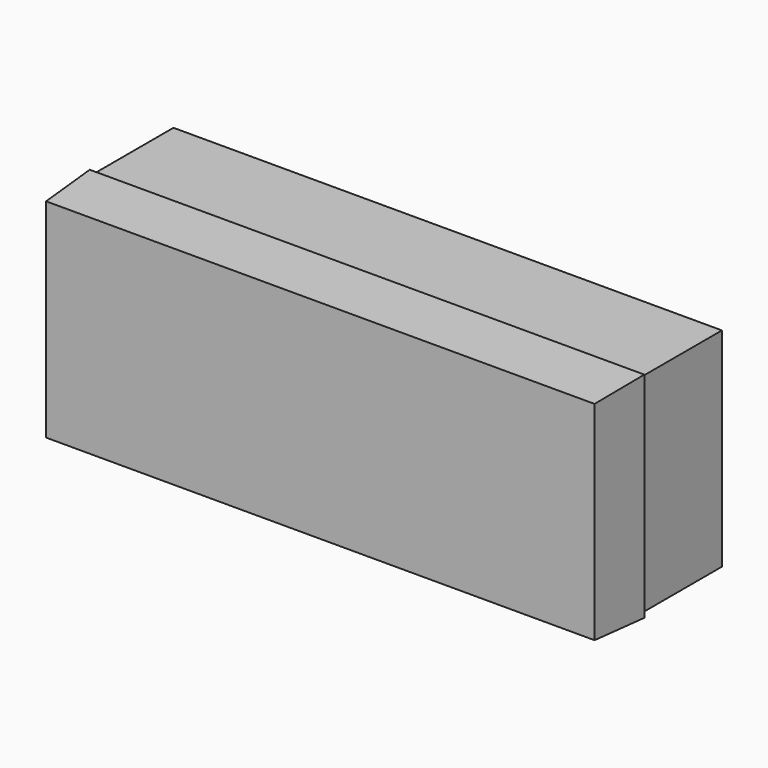
from build123d import *

# Parameters (mm, degrees)
F0_W      = 87.5036269426
F0_H      = 33.1910848618
F1_DEPTH  = 25.4
F1_FACE_W = 87.5036269426
F1_FACE_H = 33.1910848618
F2_DEPTH  = 9.3165077269
F2_TAPER  = -3


with BuildPart() as f1:
    # F0 (on Front) → F1 (new body)
    with BuildSketch(Plane.XZ):
        Rectangle(F0_W, F0_H)
    extrude(amount=F1_DEPTH)

    # F1_face (on face) → F2 (join)
    with BuildSketch(Plane.XZ.offset(25.4)):
        Rectangle(F1_FACE_W, F1_FACE_H)
    extrude(amount=-F2_DEPTH, taper=F2_TAPER)


solid = f1.part
